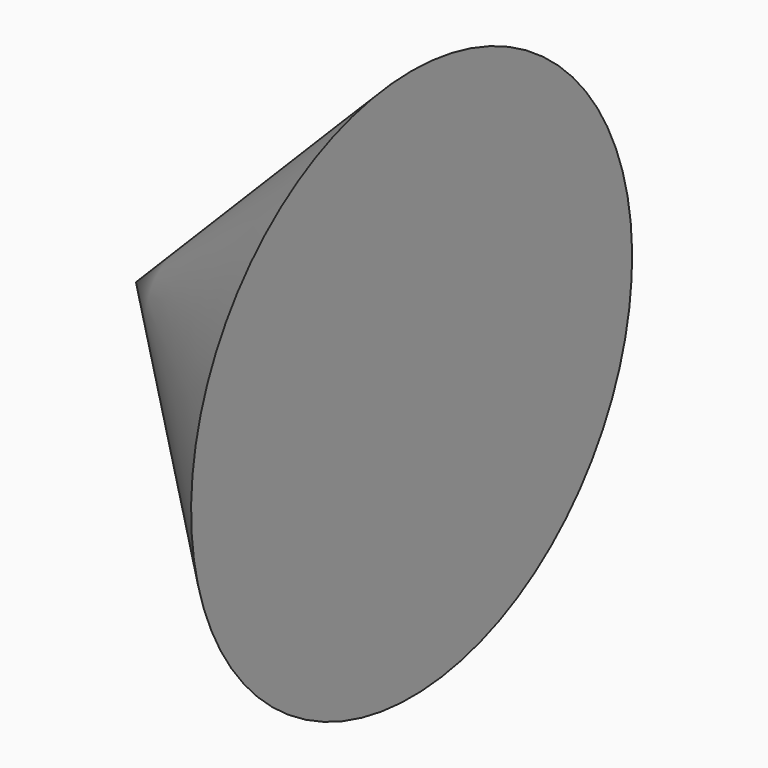
from build123d import *

# Parameters (mm, degrees)
F2_T = -3.048


with BuildPart() as f1:
    # F0 (on Front) → F1 (revolve)
    with BuildSketch(Plane.XZ):
        with BuildLine():
            Line((25.4, 25.4), (0, 0))
            ThreePointArc((0, 0), (17.9605122421, 7.4394877579), (25.4, 25.4))
        make_face()
        with BuildLine():
            ThreePointArc((25.4, 25.4), (17.9605122421, 7.4394877579), (0, 0))
            Line((0, 0), (25.4, 0))
            Line((25.4, 0), (25.4, 25.4))
        make_face()
    revolve(axis=Axis((12.7, 0, 0), (-1, 0, 0)))

    # F2 (hollow: no face is removed)
    offset(amount=F2_T, mode=Mode.SUBTRACT)


solid = f1.part
